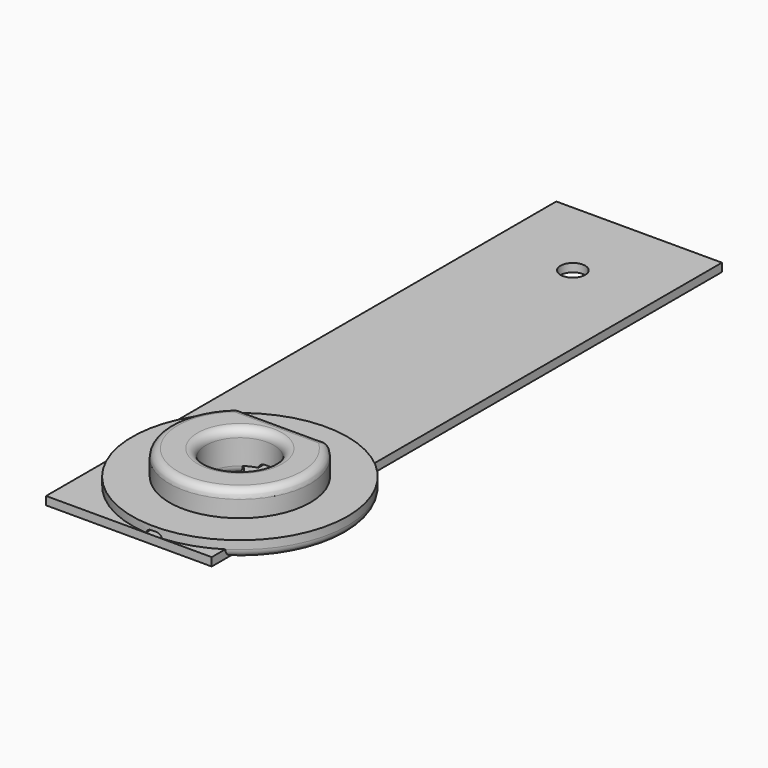
from build123d import *

# Parameters (mm, degrees)
SKETCH_R        = 13
PAD_DEPTH       = 2
SKETCH001_R     = 8.5
PAD001_DEPTH    = 3
SKETCH002_R     = 4.1
POCKET_DEPTH    = 5
SKETCH003_W     = 18
SKETCH003_H     = 2.164
POCKET001_DEPTH = 2.5
SKETCH004_W     = 2
SKETCH004_H     = 26
POCKET002_DEPTH = 1.5
FILLET_R        = 0.7
FILLET001_R     = 0.7
FILLET002_R     = 1
FILLET003_R     = 1
FILLET004_R     = 1
FILLET005_R     = 1
FILLET006_R     = 1
SKETCH005_W     = 20
SKETCH005_H     = 77
PAD002_DEPTH    = 1
SKETCH006_R     = 1.5
POCKET003_DEPTH = 1.001


with BuildPart() as body:
    # Sketch → Pad (new body)
    with BuildSketch(Plane.XY):
        with Locations((13, 13)):
            Circle(SKETCH_R)
    extrude(amount=PAD_DEPTH)

    # Sketch001 (on Face3 of Pad) → Pad001 (join)
    with BuildSketch(Plane.XY.offset(2)):
        with Locations((13, 13)):
            Circle(SKETCH001_R)
    extrude(amount=PAD001_DEPTH)

    # Sketch002 (on Face5 of Pad001) → Pocket (cut)
    with BuildSketch(Plane.XY.offset(5)):
        with Locations((13, 13)):
            Circle(SKETCH002_R)
    extrude(amount=-POCKET_DEPTH, mode=Mode.SUBTRACT)

    # Sketch003 (on Face6 of Pocket) → Pocket001 (cut)
    with BuildSketch(Plane.XY.offset(5)):
        with Locations((13, 20.582)):
            Rectangle(SKETCH003_W, SKETCH003_H)
    extrude(amount=-POCKET001_DEPTH, mode=Mode.SUBTRACT)

    # Sketch004 (on Face2 of Pocket001) → Pocket002 (cut)
    with BuildSketch(Plane(origin=(0, 0, 0), x_dir=(1, 0, 0), z_dir=(0, 0, -1))):
        with Locations((13, -13)):
            Rectangle(SKETCH004_W, SKETCH004_H)
    extrude(amount=-POCKET002_DEPTH, mode=Mode.SUBTRACT)

    # Fillet
    fillet_edges = [body.edges().sort_by_distance(p)[0] for p in [
        (14, 21.46883, 1.5),
        (12, 21.46883, 1.5),
    ]]
    fillet(fillet_edges, radius=FILLET_R)

    # Fillet001
    fillet001_edges = [body.edges().sort_by_distance(p)[0] for p in [
        (12, 4.53117, 1.5),
        (14, 4.53117, 1.5),
    ]]
    fillet(fillet001_edges, radius=FILLET001_R)

    # Fillet002
    fillet002_edges = [body.edges().sort_by_distance(p)[0] for p in [
        (22.539392, 21.831761, 0),
        (0, 13, 0),
    ]]
    fillet(fillet002_edges, radius=FILLET002_R)

    # Fillet003
    fillet003_edges = [body.edges().sort_by_distance(p)[0] for p in [
        (20.707348, 16.584242, 5),
        (9.415758, 5.292652, 5),
    ]]
    fillet(fillet003_edges, radius=FILLET003_R)

    # Fillet004
    fillet004_edges = [body.edges().sort_by_distance(p)[0] for p in [
        (8.9, 13, 5),
    ]]
    fillet(fillet004_edges, radius=FILLET004_R)

    # Fillet005
    fillet005_edges = [body.edges().sort_by_distance(p)[0] for p in [
        (17.818835, 19.5, 4.806359),
        (8.181165, 19.5, 4.806359),
        (13, 19.5, 5),
    ]]
    fillet(fillet005_edges, radius=FILLET005_R)

    # Fillet006
    fillet006_edges = [body.edges().sort_by_distance(p)[0] for p in [
        (8.9, 13, 0),
        (16.233419, 10.479087, 0),
        (16.233419, 15.520913, 0),
    ]]
    fillet(fillet006_edges, radius=FILLET006_R)


with BuildPart() as body001:
    # Sketch005 → Pad002 (new body)
    with BuildSketch(Plane.XY):
        with Locations((10, 38.5)):
            Rectangle(SKETCH005_W, SKETCH005_H)
    extrude(amount=PAD002_DEPTH)

    # Sketch006 (on Face6 of Pad002) → Pocket003 (cut, through all)
    with BuildSketch(Plane.XY.offset(1)):
        with Locations((10, 67)):
            Circle(SKETCH006_R)
        with Locations((10, 15)):
            Circle(SKETCH006_R)
    extrude(amount=-POCKET003_DEPTH, mode=Mode.SUBTRACT)


solid = Compound([body.part, body001.part])
